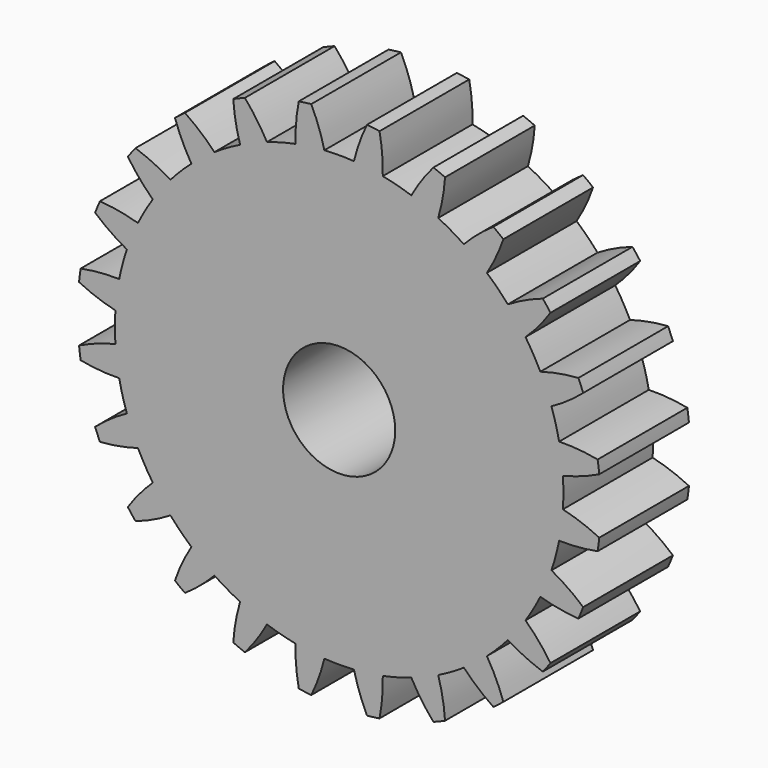
from build123d import *

# Parameters (mm, degrees)
F0_R     = 70
F0_R_2   = 15
F1_DEPTH = 30
F3_DEPTH = 31


with BuildPart() as f1:
    # F0 (on Front) → F1 (new body)
    with BuildSketch(Plane.XZ):
        Circle(F0_R)
        Circle(F0_R_2, mode=Mode.SUBTRACT)
    extrude(amount=F1_DEPTH)

    # F2 (on face) → F3 (cut)
    with BuildSketch(Plane.XZ.offset(30)):
        with BuildLine():
            ThreePointArc((3.959342, 59.869221), (5.917735, 66.084931), (8.705645, 71.975425))
            ThreePointArc((8.705645, 71.975425), (0, 72.5), (-8.705645, 71.975425))
            ThreePointArc((-8.705645, 71.975425), (-5.917735, 66.084931), (-3.959342, 59.869221))
            ThreePointArc((-3.959342, 59.869221), (0, 60), (3.959342, 59.869221))
        make_face()
        with BuildLine():
            ThreePointArc((-11.670864, 58.85398), (-11.387945, 65.364764), (-10.219603, 71.776108))
            ThreePointArc((-10.219603, 71.776108), (-18.764381, 70.029622), (-27.037618, 67.269735))
            ThreePointArc((-27.037618, 67.269735), (-22.820132, 62.301519), (-19.319725, 56.804474))
            ThreePointArc((-19.319725, 56.804474), (-15.529143, 57.95555), (-11.670864, 58.85398))
        make_face()
        with BuildLine():
            ThreePointArc((-26.50572, 53.827937), (-27.917556, 60.190097), (-28.448402, 66.685369))
            ThreePointArc((-28.448402, 66.685369), (-36.25, 62.786842), (-43.527022, 57.979724))
            ThreePointArc((-43.527022, 57.979724), (-38.167375, 54.272361), (-33.363501, 49.868595))
            ThreePointArc((-33.363501, 49.868595), (-30, 51.961524), (-26.50572, 53.827937))
        make_face()
        with BuildLine():
            ThreePointArc((-39.534255, 45.13361), (-42.544632, 50.913574), (-44.73849, 57.050132))
            ThreePointArc((-44.73849, 57.050132), (-51.265242, 51.265242), (-57.050132, 44.73849))
            ThreePointArc((-57.050132, 44.73849), (-50.913574, 42.544632), (-45.13361, 39.534255))
            ThreePointArc((-45.13361, 39.534255), (-42.426407, 42.426407), (-39.534255, 45.13361))
        make_face()
        with BuildLine():
            ThreePointArc((-49.868595, 33.363501), (-54.272361, 38.167375), (-57.979724, 43.527022))
            ThreePointArc((-57.979724, 43.527022), (-62.786842, 36.25), (-66.685369, 28.448402))
            ThreePointArc((-66.685369, 28.448402), (-60.190097, 27.917556), (-53.827937, 26.50572))
            ThreePointArc((-53.827937, 26.50572), (-51.961524, 30), (-49.868595, 33.363501))
        make_face()
        with BuildLine():
            ThreePointArc((-56.804474, 19.319725), (-62.301519, 22.820132), (-67.269735, 27.037618))
            ThreePointArc((-67.269735, 27.037618), (-70.029622, 18.764381), (-71.776108, 10.219603))
            ThreePointArc((-71.776108, 10.219603), (-65.364764, 11.387945), (-58.85398, 11.670864))
            ThreePointArc((-58.85398, 11.670864), (-57.95555, 15.529143), (-56.804474, 19.319725))
        make_face()
        with BuildLine():
            ThreePointArc((-59.869221, 3.959342), (-66.084931, 5.917735), (-71.975425, 8.705645))
            ThreePointArc((-71.975425, 8.705645), (-72.5, 0), (-71.975425, -8.705645))
            ThreePointArc((-71.975425, -8.705645), (-66.084931, -5.917735), (-59.869221, -3.959342))
            ThreePointArc((-59.869221, -3.959342), (-60, 0), (-59.869221, 3.959342))
        make_face()
        with BuildLine():
            ThreePointArc((-58.85398, -11.670864), (-65.364764, -11.387945), (-71.776108, -10.219603))
            ThreePointArc((-71.776108, -10.219603), (-70.029622, -18.764381), (-67.269735, -27.037618))
            ThreePointArc((-67.269735, -27.037618), (-62.301519, -22.820132), (-56.804474, -19.319725))
            ThreePointArc((-56.804474, -19.319725), (-57.95555, -15.529143), (-58.85398, -11.670864))
        make_face()
        with BuildLine():
            ThreePointArc((-53.827937, -26.50572), (-60.190097, -27.917556), (-66.685369, -28.448402))
            ThreePointArc((-66.685369, -28.448402), (-62.786842, -36.25), (-57.979724, -43.527022))
            ThreePointArc((-57.979724, -43.527022), (-54.272361, -38.167375), (-49.868595, -33.363501))
            ThreePointArc((-49.868595, -33.363501), (-51.961524, -30), (-53.827937, -26.50572))
        make_face()
        with BuildLine():
            ThreePointArc((-45.13361, -39.534255), (-50.913574, -42.544632), (-57.050132, -44.73849))
            ThreePointArc((-57.050132, -44.73849), (-51.265242, -51.265242), (-44.73849, -57.050132))
            ThreePointArc((-44.73849, -57.050132), (-42.544632, -50.913574), (-39.534255, -45.13361))
            ThreePointArc((-39.534255, -45.13361), (-42.426407, -42.426407), (-45.13361, -39.534255))
        make_face()
        with BuildLine():
            ThreePointArc((-33.363501, -49.868595), (-38.167375, -54.272361), (-43.527022, -57.979724))
            ThreePointArc((-43.527022, -57.979724), (-36.25, -62.786842), (-28.448402, -66.685369))
            ThreePointArc((-28.448402, -66.685369), (-27.917556, -60.190097), (-26.50572, -53.827937))
            ThreePointArc((-26.50572, -53.827937), (-30, -51.961524), (-33.363501, -49.868595))
        make_face()
        with BuildLine():
            ThreePointArc((-19.319725, -56.804474), (-22.820132, -62.301519), (-27.037618, -67.269735))
            ThreePointArc((-27.037618, -67.269735), (-18.764381, -70.029622), (-10.219603, -71.776108))
            ThreePointArc((-10.219603, -71.776108), (-11.387945, -65.364764), (-11.670864, -58.85398))
            ThreePointArc((-11.670864, -58.85398), (-15.529143, -57.95555), (-19.319725, -56.804474))
        make_face()
        with BuildLine():
            ThreePointArc((-3.959342, -59.869221), (-5.917735, -66.084931), (-8.705645, -71.975425))
            ThreePointArc((-8.705645, -71.975425), (0, -72.5), (8.705645, -71.975425))
            ThreePointArc((8.705645, -71.975425), (5.917735, -66.084931), (3.959342, -59.869221))
            ThreePointArc((3.959342, -59.869221), (0, -60), (-3.959342, -59.869221))
        make_face()
        with BuildLine():
            ThreePointArc((11.670864, -58.85398), (11.387945, -65.364764), (10.219603, -71.776108))
            ThreePointArc((10.219603, -71.776108), (18.764381, -70.029622), (27.037618, -67.269735))
            ThreePointArc((27.037618, -67.269735), (22.820132, -62.301519), (19.319725, -56.804474))
            ThreePointArc((19.319725, -56.804474), (15.529143, -57.95555), (11.670864, -58.85398))
        make_face()
        with BuildLine():
            ThreePointArc((26.50572, -53.827937), (27.917556, -60.190097), (28.448402, -66.685369))
            ThreePointArc((28.448402, -66.685369), (36.25, -62.786842), (43.527022, -57.979724))
            ThreePointArc((43.527022, -57.979724), (38.167375, -54.272361), (33.363501, -49.868595))
            ThreePointArc((33.363501, -49.868595), (30, -51.961524), (26.50572, -53.827937))
        make_face()
        with BuildLine():
            ThreePointArc((39.534255, -45.13361), (42.544632, -50.913574), (44.73849, -57.050132))
            ThreePointArc((44.73849, -57.050132), (51.265242, -51.265242), (57.050132, -44.73849))
            ThreePointArc((57.050132, -44.73849), (50.913574, -42.544632), (45.13361, -39.534255))
            ThreePointArc((45.13361, -39.534255), (42.426407, -42.426407), (39.534255, -45.13361))
        make_face()
        with BuildLine():
            ThreePointArc((49.868595, -33.363501), (54.272361, -38.167375), (57.979724, -43.527022))
            ThreePointArc((57.979724, -43.527022), (62.786842, -36.25), (66.685369, -28.448402))
            ThreePointArc((66.685369, -28.448402), (60.190097, -27.917556), (53.827937, -26.50572))
            ThreePointArc((53.827937, -26.50572), (51.961524, -30), (49.868595, -33.363501))
        make_face()
        with BuildLine():
            ThreePointArc((56.804474, -19.319725), (62.301519, -22.820132), (67.269735, -27.037618))
            ThreePointArc((67.269735, -27.037618), (70.029622, -18.764381), (71.776108, -10.219603))
            ThreePointArc((71.776108, -10.219603), (65.364764, -11.387945), (58.85398, -11.670864))
            ThreePointArc((58.85398, -11.670864), (57.95555, -15.529143), (56.804474, -19.319725))
        make_face()
        with BuildLine():
            ThreePointArc((59.869221, -3.959342), (66.084931, -5.917735), (71.975425, -8.705645))
            ThreePointArc((71.975425, -8.705645), (72.5, 0), (71.975425, 8.705645))
            ThreePointArc((71.975425, 8.705645), (66.084931, 5.917735), (59.869221, 3.959342))
            ThreePointArc((59.869221, 3.959342), (60, 0), (59.869221, -3.959342))
        make_face()
        with BuildLine():
            ThreePointArc((58.85398, 11.670864), (65.364764, 11.387945), (71.776108, 10.219603))
            ThreePointArc((71.776108, 10.219603), (70.029622, 18.764381), (67.269735, 27.037618))
            ThreePointArc((67.269735, 27.037618), (62.301519, 22.820132), (56.804474, 19.319725))
            ThreePointArc((56.804474, 19.319725), (57.95555, 15.529143), (58.85398, 11.670864))
        make_face()
        with BuildLine():
            ThreePointArc((53.827937, 26.50572), (60.190097, 27.917556), (66.685369, 28.448402))
            ThreePointArc((66.685369, 28.448402), (62.786842, 36.25), (57.979724, 43.527022))
            ThreePointArc((57.979724, 43.527022), (54.272361, 38.167375), (49.868595, 33.363501))
            ThreePointArc((49.868595, 33.363501), (51.961524, 30), (53.827937, 26.50572))
        make_face()
        with BuildLine():
            ThreePointArc((45.13361, 39.534255), (50.913574, 42.544632), (57.050132, 44.73849))
            ThreePointArc((57.050132, 44.73849), (51.265242, 51.265242), (44.73849, 57.050132))
            ThreePointArc((44.73849, 57.050132), (42.544632, 50.913574), (39.534255, 45.13361))
            ThreePointArc((39.534255, 45.13361), (42.426407, 42.426407), (45.13361, 39.534255))
        make_face()
        with BuildLine():
            ThreePointArc((33.363501, 49.868595), (38.167375, 54.272361), (43.527022, 57.979724))
            ThreePointArc((43.527022, 57.979724), (36.25, 62.786842), (28.448402, 66.685369))
            ThreePointArc((28.448402, 66.685369), (27.917556, 60.190097), (26.50572, 53.827937))
            ThreePointArc((26.50572, 53.827937), (30, 51.961524), (33.363501, 49.868595))
        make_face()
        with BuildLine():
            ThreePointArc((19.319725, 56.804474), (22.820132, 62.301519), (27.037618, 67.269735))
            ThreePointArc((27.037618, 67.269735), (18.764381, 70.029622), (10.219603, 71.776108))
            ThreePointArc((10.219603, 71.776108), (11.387945, 65.364764), (11.670864, 58.85398))
            ThreePointArc((11.670864, 58.85398), (15.529143, 57.95555), (19.319725, 56.804474))
        make_face()
    extrude(amount=-F3_DEPTH, mode=Mode.SUBTRACT)


solid = f1.part
